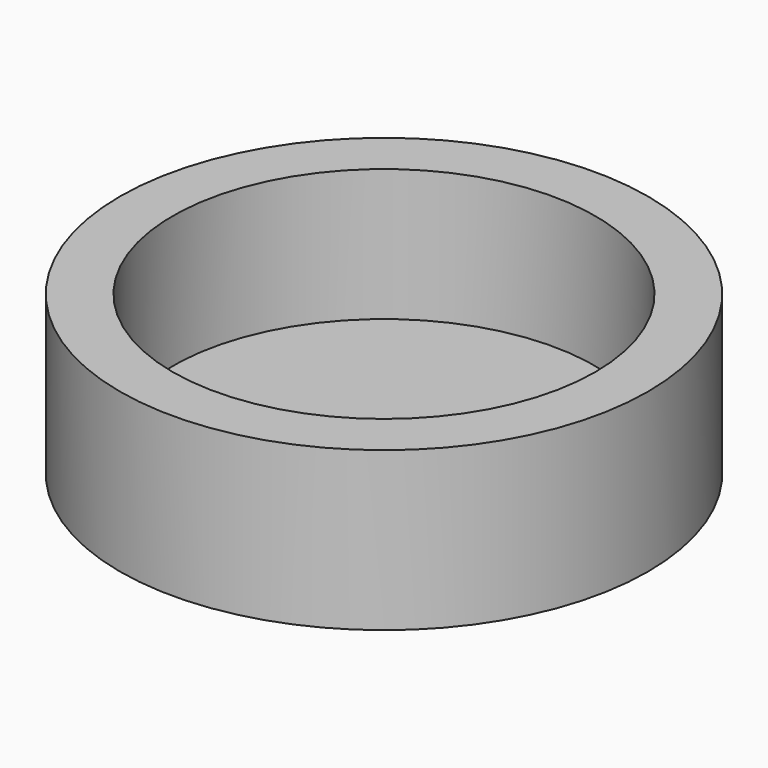
from build123d import *

# Parameters (mm, degrees)
F0_R     = 10
F0_R_2   = 8
F1_DEPTH = 6
F2_R     = 10
F2_W     = 0.8
F2_H     = 2
F2_R_2   = 0.25
F3_DEPTH = 1
F4_DEPTH = 1.5


with BuildPart() as f1:
    # F0 (on Top) → F1 (new body)
    with BuildSketch(Plane.XY):
        Circle(F0_R)
        Circle(F0_R_2, mode=Mode.SUBTRACT)
    extrude(amount=F1_DEPTH)

    # F2 (on Top) → F3 (join)
    with BuildSketch(Plane.XY):
        Circle(F2_R)
        with Locations((-9, 0)):
            Rectangle(F2_W, F2_H, mode=Mode.SUBTRACT)
        with Locations((-1, 0)):
            Circle(F2_R_2, mode=Mode.SUBTRACT)
        Circle(F2_R_2, mode=Mode.SUBTRACT)
        with Locations((1, 0)):
            Circle(F2_R_2, mode=Mode.SUBTRACT)
        with Locations((9, 0)):
            Rectangle(F2_W, F2_H, mode=Mode.SUBTRACT)
    extrude(amount=F3_DEPTH)

    # F2 (on Top) → F4 (cut)
    with BuildSketch(Plane.XY):
        with Locations((9, 0)):
            Rectangle(F2_W, F2_H)
        with Locations((-9, 0)):
            Rectangle(F2_W, F2_H)
    extrude(amount=F4_DEPTH, mode=Mode.SUBTRACT)


solid = f1.part
